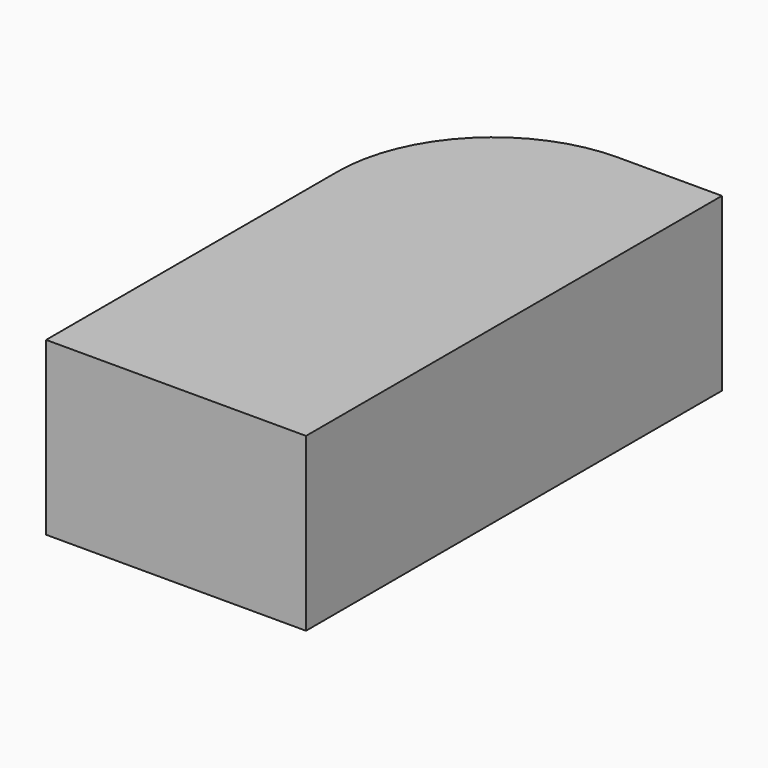
from build123d import *

# Parameters (mm, degrees)
F1_DEPTH = 330


with BuildPart() as f1:
    # F0 (on Top) → F1 (new body)
    with BuildSketch(Plane.XY):
        with BuildLine():
            Line((-449.18861, 793.854782), (-649.18861, 793.854782))
            ThreePointArc((-649.18861, 793.854782), (-861.320645, 705.986817), (-949.18861, 493.854782))
            Line((-949.18861, 493.854782), (-949.18861, -206.145218))
            Line((-949.18861, -206.145218), (-449.18861, -206.145218))
            Line((-449.18861, -206.145218), (-449.18861, 793.854782))
        make_face()
    extrude(amount=F1_DEPTH)


solid = f1.part
